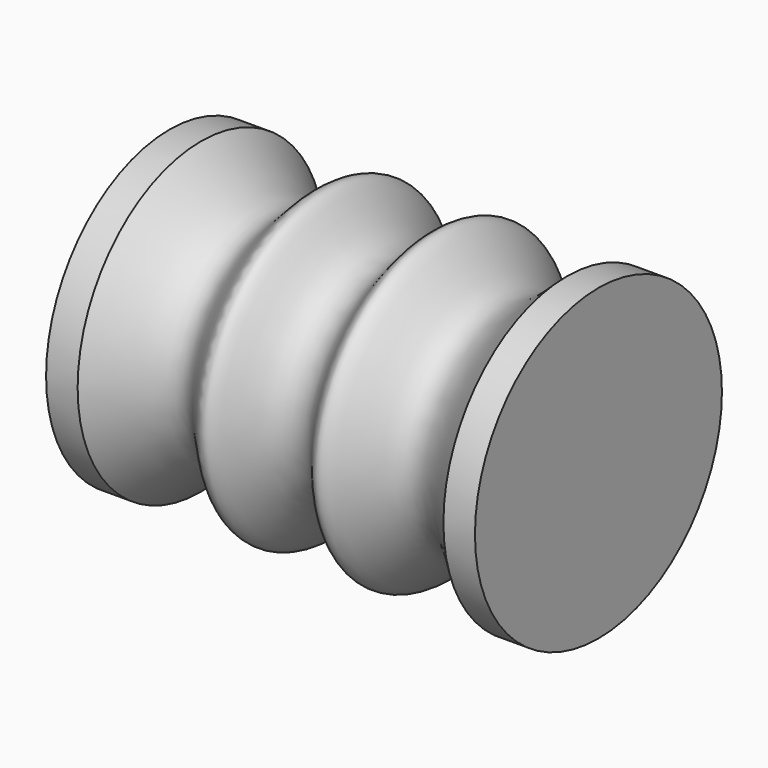
from build123d import *


with BuildPart() as f1:
    # F0 (on Top) → F1 (revolve)
    with BuildSketch(Plane.XY):
        with BuildLine():
            Line((55.5732686878, -40), (55.5732686878, 0))
            Line((55.5732686878, 0), (0, 0))
            Line((0, 0), (-55.5732686878, 0))
            Line((-55.5732686878, 0), (-55.5732686878, -40))
            Line((-55.5732686878, -40), (-47.3952590766, -40))
            add(Edge.make_bspline(
                [(-47.3952590766, -40), (-40.594354699, -33.621054644), (-28.1741909454, -20.6950382272), (-13.5593671051, -49.8705296837), (-7.8444605816, -29.0841772008), (0, -29.0841772008)],
                knots=[0, 0, 0, 0, 0.3578458043, 0.6754846766, 1, 1, 1, 1], degree=3))
            add(Edge.make_bspline(
                [(47.3952590766, -40), (40.594354699, -33.621054644), (28.1741909454, -20.6950382272), (13.5593671051, -49.8705296837), (7.8444605816, -29.0841772008), (0, -29.0841772008)],
                knots=[0, 0, 0, 0, 0.3578458043, 0.6754846766, 1, 1, 1, 1], degree=3))
            Line((47.3952590766, -40), (55.5732686878, -40))
        make_face()
    revolve(axis=Axis((-27.7866343439, 0, 0), (1, 0, 0)))


solid = f1.part
